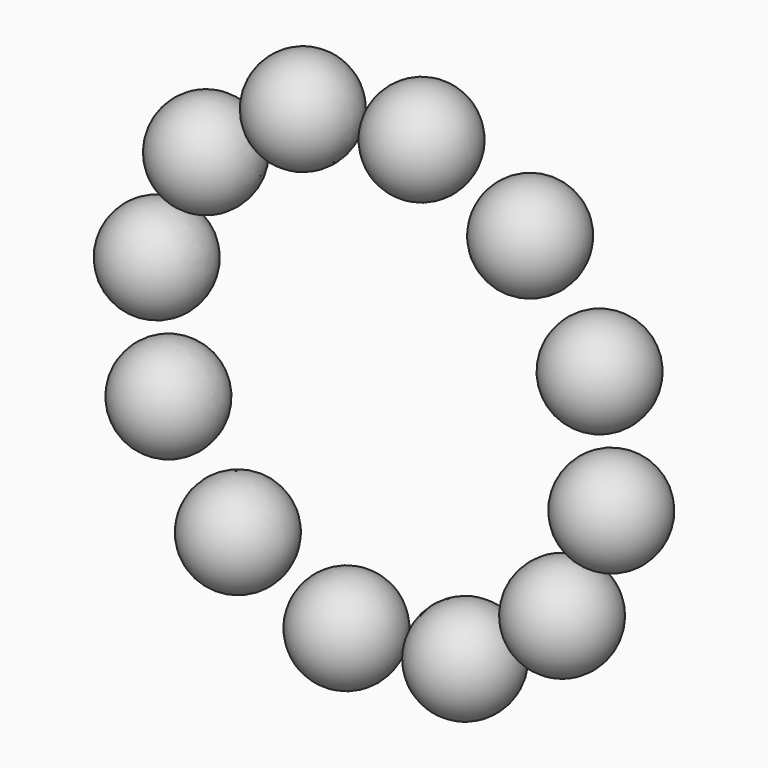
from build123d import *

# Parameters (mm, degrees)
F3_COUNT = 12


with BuildPart() as f1:
    # F0 (on Front) → F1 (revolve)
    with BuildSketch(Plane.XZ):
        with BuildLine():
            Line((-45.1606545284, 49.5665825903), (-45.1606545284, 24.5665825903))
            ThreePointArc((-45.1606545284, 24.5665825903), (-32.6606545284, 37.0665825903), (-45.1606545284, 49.5665825903))
        make_face()
    revolve(axis=Axis((-45.1606545284, 0, 37.0665825903), (0, 0, -1)))


with BuildPart() as f3_1:
    # F3: instance of F1
    add(f1.part.rotate(Axis((0, 0, 0), (0, -1, 0)), 1 * 360 / F3_COUNT))


with BuildPart() as f3_2:
    # F3: instance of F1
    add(f1.part.rotate(Axis((0, 0, 0), (0, -1, 0)), 2 * 360 / F3_COUNT))


with BuildPart() as f3_3:
    # F3: instance of F1
    add(f1.part.rotate(Axis((0, 0, 0), (0, -1, 0)), 3 * 360 / F3_COUNT))


with BuildPart() as f3_4:
    # F3: instance of F1
    add(f1.part.rotate(Axis((0, 0, 0), (0, -1, 0)), 4 * 360 / F3_COUNT))


with BuildPart() as f3_5:
    # F3: instance of F1
    add(f1.part.rotate(Axis((0, 0, 0), (0, -1, 0)), 5 * 360 / F3_COUNT))


with BuildPart() as f3_6:
    # F3: instance of F1
    add(f1.part.rotate(Axis((0, 0, 0), (0, -1, 0)), 6 * 360 / F3_COUNT))


with BuildPart() as f3_7:
    # F3: instance of F1
    add(f1.part.rotate(Axis((0, 0, 0), (0, -1, 0)), 7 * 360 / F3_COUNT))


with BuildPart() as f3_8:
    # F3: instance of F1
    add(f1.part.rotate(Axis((0, 0, 0), (0, -1, 0)), 8 * 360 / F3_COUNT))


with BuildPart() as f3_9:
    # F3: instance of F1
    add(f1.part.rotate(Axis((0, 0, 0), (0, -1, 0)), 9 * 360 / F3_COUNT))


with BuildPart() as f3_10:
    # F3: instance of F1
    add(f1.part.rotate(Axis((0, 0, 0), (0, -1, 0)), 10 * 360 / F3_COUNT))


with BuildPart() as f3_11:
    # F3: instance of F1
    add(f1.part.rotate(Axis((0, 0, 0), (0, -1, 0)), 11 * 360 / F3_COUNT))


solid = Compound([f1.part, f3_1.part, f3_2.part, f3_3.part, f3_4.part, f3_5.part, f3_6.part, f3_7.part, f3_8.part, f3_9.part, f3_10.part, f3_11.part])
